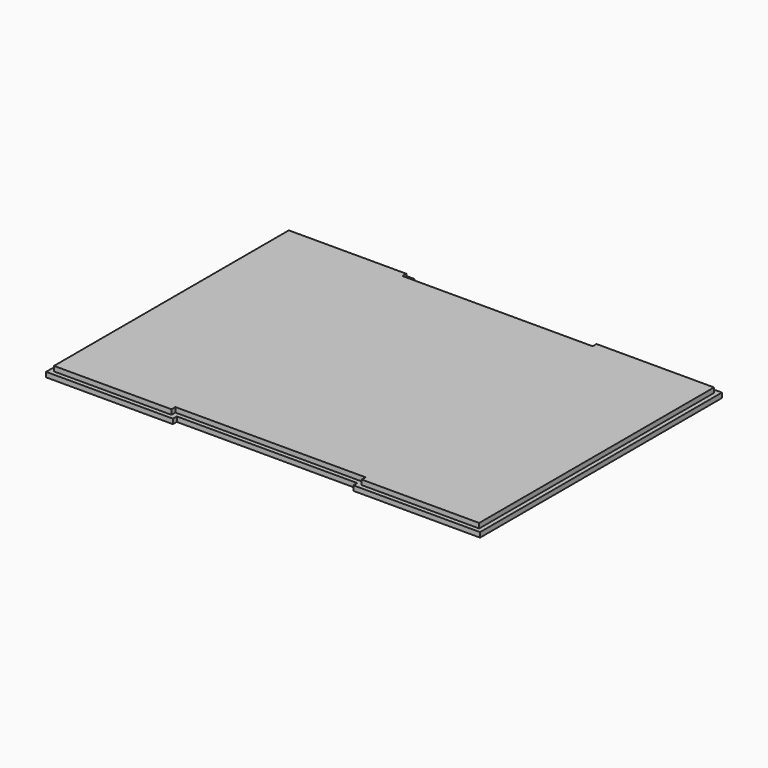
from build123d import *

# Parameters (mm, degrees)
F0_W     = 26
F0_H     = 1
F0_H_2   = 60
F0_W_2   = 37
F1_DEPTH = 1
F2_W     = 39
F2_H     = 58.2
F3_DEPTH = 1


with BuildPart() as f1:
    # F0 (on Top) → F1 (new body)
    with BuildSketch(Plane.XY):
        with Locations((31.5, -30.5)):
            Rectangle(F0_W, F0_H)
        with Locations((31.5, 0)):
            Rectangle(F0_W, F0_H_2)
        Rectangle(F0_W_2, F0_H_2)
        with Locations((31.5, 30.5)):
            Rectangle(F0_W, F0_H)
        with Locations((-31.5, -30.5)):
            Rectangle(F0_W, F0_H)
        with Locations((-31.5, 0)):
            Rectangle(F0_W, F0_H_2)
        with Locations((-31.5, 30.5)):
            Rectangle(F0_W, F0_H)
    extrude(amount=F1_DEPTH)

    # F2 (on face) → F3 (join)
    with BuildSketch(Plane.XY.offset(1)):
        Polygon((-19.5, 30.1), (-43.6, 30.1), (-43.6, -30.1), (-19.5, -30.1), (-19.5, -29.1), (-19.5, 29.1), align=None)
        Rectangle(F2_W, F2_H)
        Polygon((19.5, 30.1), (19.5, 29.1), (19.5, -29.1), (19.5, -30.1), (43.6, -30.1), (43.6, 30.1), align=None)
    extrude(amount=F3_DEPTH)


solid = f1.part
